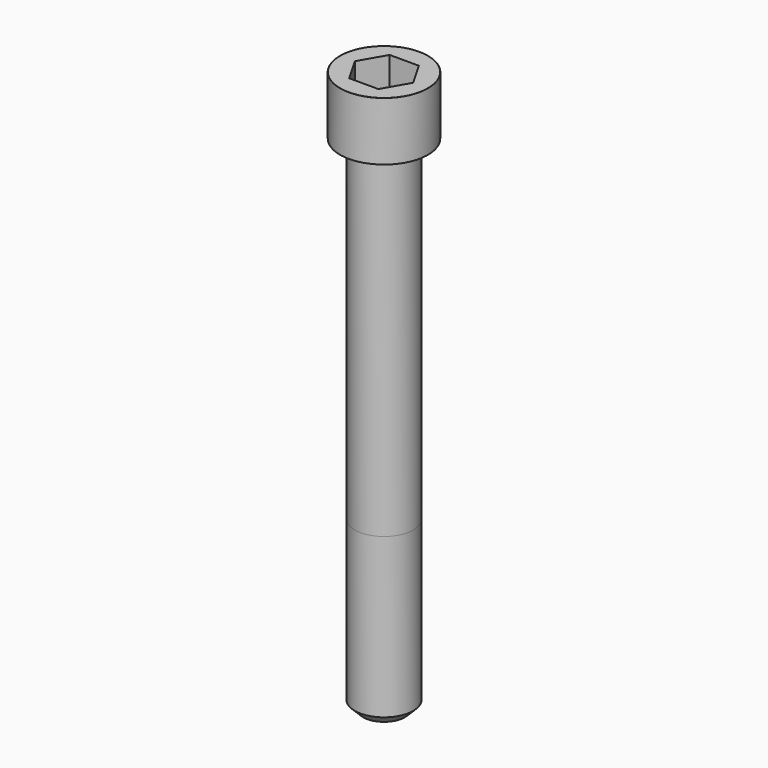
from build123d import *

# Parameters (mm, degrees)
POCKET_DEPTH = 12.07


with BuildPart() as part:
    # Sketch → Revolve (revolve)
    with BuildSketch(Plane.YZ):
        with BuildLine():
            Line((6.999, 0), (10.5, 0))
            Line((10.5, 0), (10.5, 13.97229))
            ThreePointArc((10.5, 13.97229), (10.491884, 13.991884), (10.47229, 14))
            Line((10.47229, 14), (0, 14))
            Line((0, -120), (0, 14))
            Line((5, -120), (0, -120))
            Line((7, -118), (5, -120))
            Line((7, -80), (7, -118))
            Line((6.999, 0), (7, -80))
        make_face()
    revolve(axis=Axis((0, 0, 0), (0, 0, 1)))

    # Sketch001 → Pocket (cut)
    with BuildSketch(Plane.XY.offset(14)):
        Polygon((6.968618, 0), (3.484309, 6.035), (-3.484309, 6.035), (-6.968618, 0), (-3.484309, -6.035), (3.484309, -6.035), align=None)
    extrude(amount=-POCKET_DEPTH, mode=Mode.SUBTRACT)


solid = part.part
